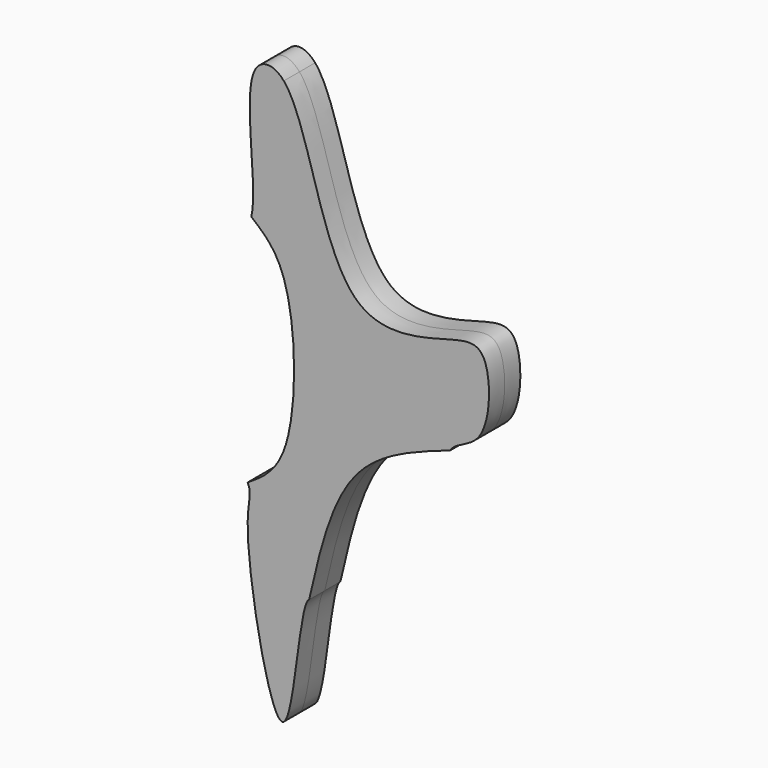
from build123d import *

# Parameters (mm, degrees)
F1_DEPTH = 2.54
F2_DEPTH = 2.54
F3_DEPTH = 2.54
F4_DEPTH = 2.54


with BuildPart() as f1:
    # F0 (on Front) → F1 (new body)
    with BuildSketch(Plane.XZ):
        with BuildLine():
            add(Edge.make_bspline(
                [(12.0368245989, -140.0343775749), (12.7817436042, -138.825704238), (17.3285437732, -138.7305148389), (17.5183625619, -126.1735841215), (11.7175135389, -127.2669296634), (-3.9026672208, -132.3538652132), (-6.1964272485, -108.7279757575), (-9.5489192754, -104.8402190208)],
                knots=[0.7135472902, 0.7135472902, 0.7135472902, 0.7135472902, 0.7531563977, 0.80920713, 0.8468990879, 0.9103607431, 1, 1, 1, 1], degree=3))
            add(Edge.make_bspline(
                [(-9.5489192754, -104.8402190208), (-10.8739006372, -103.3036888296), (-15.9900079322, -103.3564118196), (-12.8356038525, -118.0537414817), (-13.7722184882, -121.7334121466)],
                knots=[0, 0, 0, 0, 0.0354274801, 0.1105949876, 0.1105949876, 0.1105949876, 0.1105949876], degree=3))
            add(Edge.make_bspline(
                [(-14.2414756119, -152.2350162268), (-12.444523763, -151.0988909153), (-7.6271822137, -148.053120005), (-7.903866364, -126.5425730186), (-12.1746572022, -123.0426262266), (-13.7722184882, -121.7334121466)],
                knots=[0, 0, 0, 0, 0.2713456995, 0.7274345793, 1, 1, 1, 1], degree=3))
            add(Edge.make_bspline(
                [(-14.2414756119, -152.2350162268), (-13.6061964372, -153.5442259612), (-15.6236414844, -155.8951076841), (-8.7532027803, -192.6237364148), (-7.5446910656, -163.666418584), (-6.2641329132, -163.027882576)],
                knots=[0.2895348678, 0.2895348678, 0.2895348678, 0.2895348678, 0.3310772514, 0.4152147646, 0.486902563, 0.486902563, 0.486902563, 0.486902563], degree=3))
            add(Edge.make_bspline(
                [(-6.2641329132, -163.027882576), (-4.8277859059, -156.7579891544), (-2.1227933502, -144.9502470535), (7.5161471222, -141.6038450923), (12.0368245989, -140.0343775749)],
                knots=[0, 0, 0, 0, 0.5309985066, 1, 1, 1, 1], degree=3))
        make_face()
    extrude(amount=F1_DEPTH)

    # F2 (add): a face of the model
    f2_faces = [f1.faces().sort_by_distance(p)[0] for p in [
        (-3.237570414, 0, -137.8044704799),
    ]]
    extrude(f2_faces, amount=F2_DEPTH)

    # F0 (on Front) → F3 (join)
    with BuildSketch(Plane.XZ):
        with BuildLine():
            add(Edge.make_bspline(
                [(-14.2414756119, -152.2350162268), (-12.444523763, -151.0988909153), (-7.6271822137, -148.053120005), (-7.903866364, -126.5425730186), (-12.1746572022, -123.0426262266), (-13.7722184882, -121.7334121466)],
                knots=[0, 0, 0, 0, 0.2713456995, 0.7274345793, 1, 1, 1, 1], degree=3))
            add(Edge.make_bspline(
                [(-13.7722184882, -121.7334121466), (-14.2810755508, -123.7325549474), (-18.3332958933, -124.1233164951), (-23.7916045432, -143.2701840119), (-15.1933963316, -150.2732584325), (-14.2414756119, -152.2350162268)],
                knots=[0.1105949876, 0.1105949876, 0.1105949876, 0.1105949876, 0.1514330395, 0.2272865567, 0.2895348678, 0.2895348678, 0.2895348678, 0.2895348678], degree=3))
        make_face()
        with BuildLine():
            add(Edge.make_bspline(
                [(-6.2641329132, -163.027882576), (-5.0730145044, -162.4339446963), (-0.9426731227, -186.0152017533), (16.3331137679, -156.1685880213), (10.6234398374, -142.327674516), (12.0368245989, -140.0343775749)],
                knots=[0.486902563, 0.486902563, 0.486902563, 0.486902563, 0.5535833741, 0.6383942756, 0.7135472902, 0.7135472902, 0.7135472902, 0.7135472902], degree=3))
            add(Edge.make_bspline(
                [(-6.2641329132, -163.027882576), (-4.8277859059, -156.7579891544), (-2.1227933502, -144.9502470535), (7.5161471222, -141.6038450923), (12.0368245989, -140.0343775749)],
                knots=[0, 0, 0, 0, 0.5309985066, 1, 1, 1, 1], degree=3))
        make_face()
    extrude(amount=F3_DEPTH)

    # F0 (on Front) → F4 (cut)
    with BuildSketch(Plane.XZ):
        with BuildLine():
            add(Edge.make_bspline(
                [(-6.2641329132, -163.027882576), (-5.0730145044, -162.4339446963), (-0.9426731227, -186.0152017533), (16.3331137679, -156.1685880213), (10.6234398374, -142.327674516), (12.0368245989, -140.0343775749)],
                knots=[0.486902563, 0.486902563, 0.486902563, 0.486902563, 0.5535833741, 0.6383942756, 0.7135472902, 0.7135472902, 0.7135472902, 0.7135472902], degree=3))
            add(Edge.make_bspline(
                [(-6.2641329132, -163.027882576), (-4.8277859059, -156.7579891544), (-2.1227933502, -144.9502470535), (7.5161471222, -141.6038450923), (12.0368245989, -140.0343775749)],
                knots=[0, 0, 0, 0, 0.5309985066, 1, 1, 1, 1], degree=3))
        make_face()
        with BuildLine():
            add(Edge.make_bspline(
                [(-14.2414756119, -152.2350162268), (-12.444523763, -151.0988909153), (-7.6271822137, -148.053120005), (-7.903866364, -126.5425730186), (-12.1746572022, -123.0426262266), (-13.7722184882, -121.7334121466)],
                knots=[0, 0, 0, 0, 0.2713456995, 0.7274345793, 1, 1, 1, 1], degree=3))
            add(Edge.make_bspline(
                [(-13.7722184882, -121.7334121466), (-14.2810755508, -123.7325549474), (-18.3332958933, -124.1233164951), (-23.7916045432, -143.2701840119), (-15.1933963316, -150.2732584325), (-14.2414756119, -152.2350162268)],
                knots=[0.1105949876, 0.1105949876, 0.1105949876, 0.1105949876, 0.1514330395, 0.2272865567, 0.2895348678, 0.2895348678, 0.2895348678, 0.2895348678], degree=3))
        make_face()
    extrude(amount=F4_DEPTH, mode=Mode.SUBTRACT)


solid = f1.part
